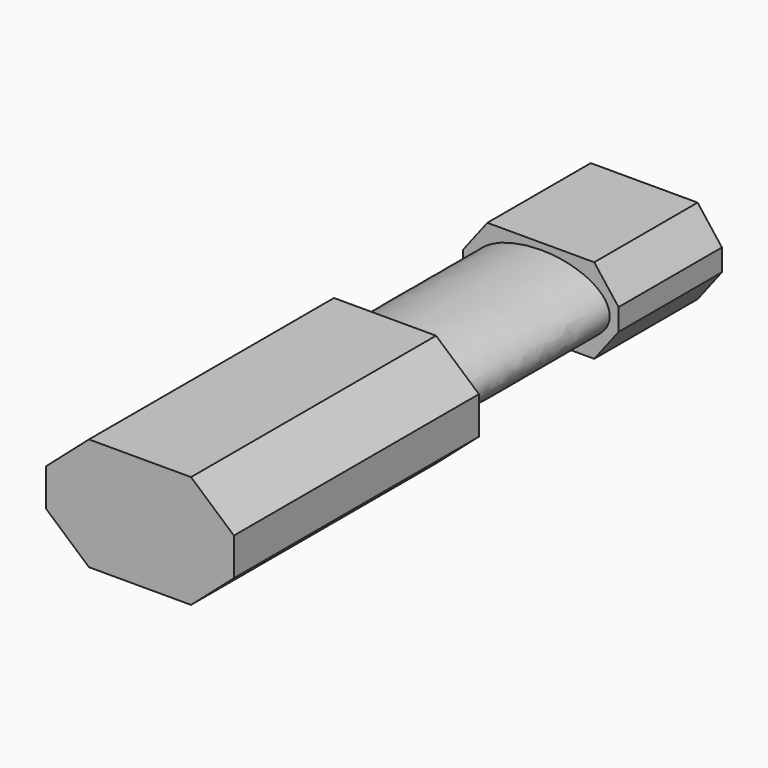
from build123d import *

# Parameters (mm, degrees)
F2_DEPTH = 109.855
F3_DEPTH = 69.85
F6_DEPTH = 46.355


with BuildPart() as f2:
    # F0 (on Front) → F2 (new body)
    with BuildSketch(Plane.XZ):
        Polygon((18.3046516031, 20.17557621), (-18.3046516031, 20.17557621), (-33.6800664663, 6.722088622), (-33.6800664663, -6.722088622), (-18.3046516031, -20.17557621), (18.3046516031, -20.17557621), (33.6800664663, -6.722088622), (33.6800664663, 6.722088622), align=None)
    extrude(amount=F2_DEPTH)

    # F1 (on Front) → F3 (join)
    with BuildSketch(Plane.XZ):
        with BuildLine():
            add(Edge.make_bspline(
                [(0, 12.9320109263), (-42.8369876382, 12.9320109263), (-21.4184938191, -6.4660054632), (0, -25.8640218526), (21.4184938191, -6.4660054632), (42.8369876382, 12.9320109263), (0, 12.9320109263)],
                knots=[4.7123889804, 4.7123889804, 4.7123889804, 6.8067840828, 6.8067840828, 8.9011791852, 8.9011791852, 10.9955742876, 10.9955742876, 10.9955742876], degree=2, weights=[1, 0.5, 1, 0.5, 1, 0.5, 1]))
        make_face()
    extrude(amount=-F3_DEPTH)

    # F5 (on offset) → F6 (join)
    with BuildSketch(Plane(origin=(0, 69.85, 0), x_dir=(-1, 0, 0), z_dir=(0, 1, 0))):
        Polygon((-27.8800725937, 3.9206352085), (-27.8800725937, 0), (-27.8800725937, -3.9206352085), (-19.1675499082, -15.246915631), (0, -15.246915631), (19.1675499082, -15.246915631), (27.8800725937, -3.9206352085), (27.8800725937, 3.9206352085), (19.1675499082, 15.246915631), (0, 15.246915631), (-19.1675499082, 15.246915631), align=None)
    extrude(amount=F6_DEPTH)


solid = f2.part
